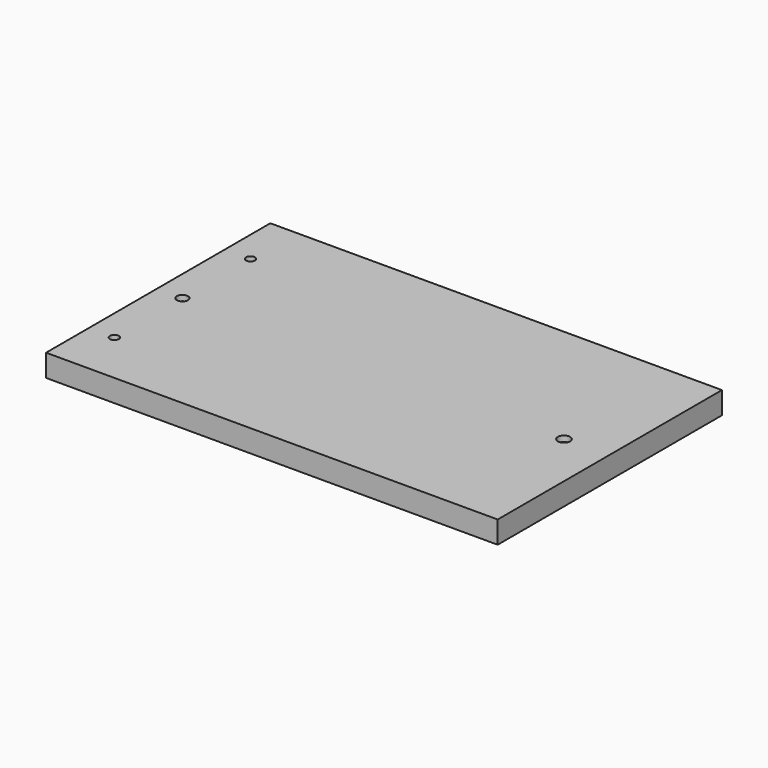
from build123d import *

# Parameters (mm, degrees)
SKETCH_W        = 406
SKETCH_H        = 252
PAD_DEPTH       = 20
SKETCH001_W     = 385
SKETCH001_H     = 233
POCKET_DEPTH    = 15
SKETCH002_R     = 4
SKETCH002_R_2   = 5
SKETCH002_R_3   = 5.5
POCKET001_DEPTH = 5.001


with BuildPart() as part:
    # Sketch → Pad (new body)
    with BuildSketch(Plane.XY):
        with Locations((203, 126)):
            Rectangle(SKETCH_W, SKETCH_H)
    extrude(amount=PAD_DEPTH)

    # Sketch001 (on Face5 of Pad) → Pocket (cut)
    with BuildSketch(Plane(origin=(0, 0, 0), x_dir=(1, 0, 0), z_dir=(0, 0, -1))):
        with Locations((195.5, -124.5)):
            Rectangle(SKETCH001_W, SKETCH001_H)
    extrude(amount=-POCKET_DEPTH, mode=Mode.SUBTRACT)

    # Sketch002 (on Face11 of Pocket) → Pocket001 (cut, through all)
    with BuildSketch(Plane(origin=(0, 0, 15), x_dir=(1, 0, 0), z_dir=(0, 0, -1))):
        with Locations((23, -201)):
            Circle(SKETCH002_R)
        with Locations((23, -124.5)):
            Circle(SKETCH002_R_2)
        with Locations((23, -48)):
            Circle(SKETCH002_R)
        with Locations((366, -124.5)):
            Circle(SKETCH002_R_3)
    extrude(amount=-POCKET001_DEPTH, mode=Mode.SUBTRACT)


solid = part.part
